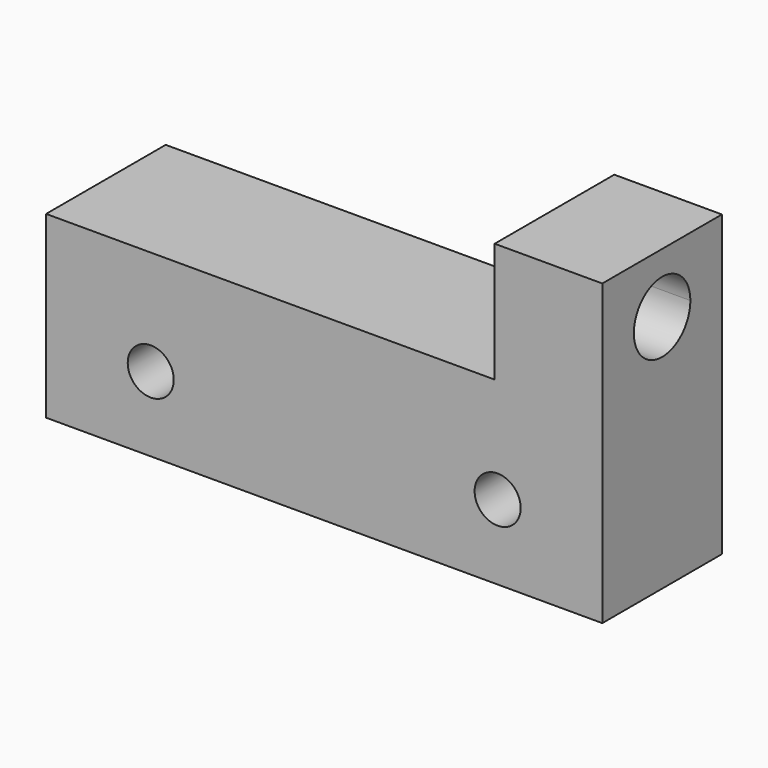
from build123d import *

# Parameters (mm, degrees)
F0_W     = 47.244
F0_H     = 25.4
F1_DEPTH = 12.7
F2_R     = 1.9558
F3_DEPTH = 12.7
F4_R     = 3.3528
F5_DEPTH = 4.064
F7_DEPTH = 25.4
F8_W     = 38.1
F8_H     = 10.16
F9_DEPTH = 12.7


with BuildPart() as f1:
    # F0 (on Front) → F1 (new body)
    with BuildSketch(Plane.XZ):
        with Locations((-20.444557, 9.059154)):
            Rectangle(F0_W, F0_H)
    extrude(amount=F1_DEPTH)

    # F2 (on face) → F3 (cut, through all)
    with BuildSketch(Plane(origin=(0, 0, 0), x_dir=(-1, 0, 0), z_dir=(0, 1, 0))):
        with Locations((5.712557, 2.709154)):
            Circle(F2_R)
        with Locations((35.176557, 2.709154)):
            Circle(F2_R)
    extrude(amount=-F3_DEPTH, mode=Mode.SUBTRACT)

    # F4 (on face) → F5 (cut)
    with BuildSketch(Plane(origin=(0, 0, 0), x_dir=(-1, 0, 0), z_dir=(0, 1, 0))):
        with Locations((5.712557, 2.709154)):
            Circle(F4_R)
        with Locations((35.176557, 2.709154)):
            Circle(F4_R)
    extrude(amount=-F5_DEPTH, mode=Mode.SUBTRACT)

    # F6 (on face) → F7 (cut)
    with BuildSketch(Plane.YZ.offset(3.177443)):
        with BuildLine():
            ThreePointArc((-6.35, 19.679154), (-8.47132, 14.557834), (-3.35, 16.679154))
            ThreePointArc((-3.35, 16.679154), (-4.22868, 18.800474), (-6.35, 19.679154))
        make_face()
    extrude(amount=-F7_DEPTH, mode=Mode.SUBTRACT)

    # F8 (on face) → F9 (cut, through all)
    with BuildSketch(Plane(origin=(0, 0, 0), x_dir=(-1, 0, 0), z_dir=(0, 1, 0))):
        with Locations((25.016557, 16.679154)):
            Rectangle(F8_W, F8_H)
    extrude(amount=-F9_DEPTH, mode=Mode.SUBTRACT)


solid = f1.part
